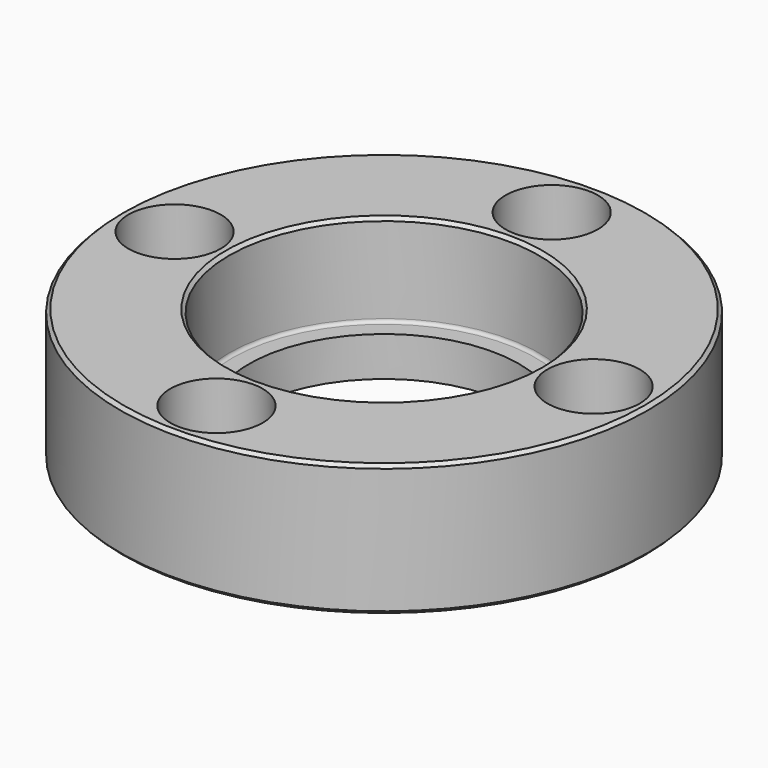
from build123d import *

# Parameters (mm, degrees)
F0_R           = 40
F0_R_2         = 20.5
F1_DEPTH       = 10
F2_R           = 23.5
F3_DEPTH       = 14
F4_R           = 0.5
F5_SIZE        = 0.5
F7_D           = 9
F7_CBORE_D     = 14
F7_CBORE_DEPTH = 8


with BuildPart() as f1:
    # F0 (on Top) → F1 (new body, symmetric)
    with BuildSketch(Plane.XY):
        Circle(F0_R)
        Circle(F0_R_2, mode=Mode.SUBTRACT)
    extrude(amount=F1_DEPTH, both=True)

    # F2 (on face) → F3 (cut)
    with BuildSketch(Plane.XY.offset(10)):
        Circle(F2_R)
    extrude(amount=-F3_DEPTH, mode=Mode.SUBTRACT)

    # F4
    f4_edges = [f1.edges().sort_by_distance(p)[0] for p in [
        (-23.5, 0, -4),
    ]]
    fillet(f4_edges, radius=F4_R)

    # F5
    f5_edges = [f1.edges().sort_by_distance(p)[0] for p in [
        (-23.5, 0, 10),
        (-40, 0, 10),
        (-40, 0, -10),
    ]]
    chamfer(f5_edges, length=F5_SIZE)

    # F7 (through all)
    with Locations(Plane.XY.offset(10)):
        with Locations((0, 31.75), (0, -31.75), (31.75, 0), (-31.75, 0)):
            CounterBoreHole(F7_D / 2, F7_CBORE_D / 2, F7_CBORE_DEPTH)


solid = f1.part
